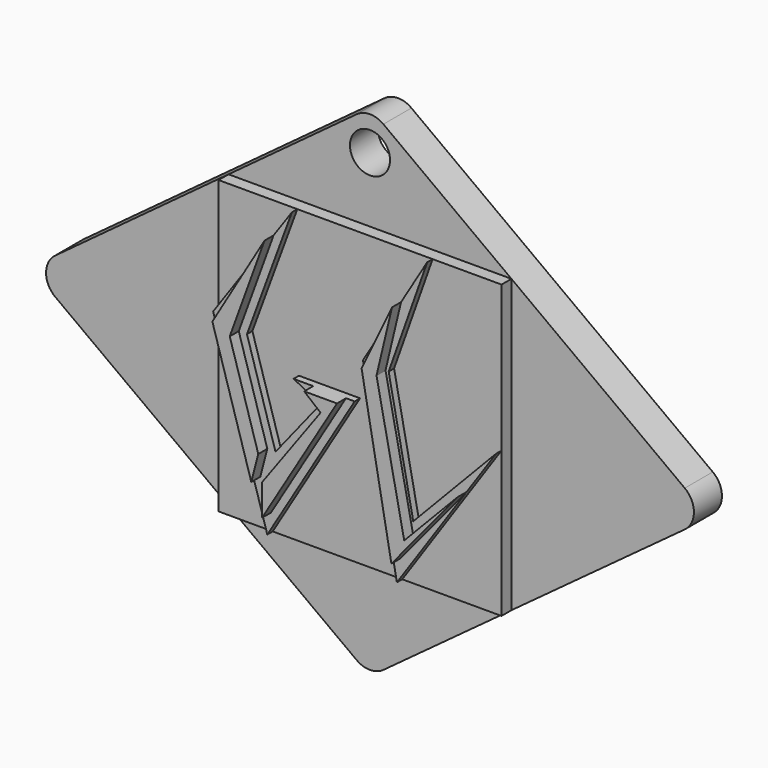
from build123d import *

# Parameters (mm, degrees)
F1_DEPTH  = 7.874
F2_W      = 63.613606
F2_H      = 65.591358
F3_DEPTH  = 2.794
F5_DEPTH  = 1.524
F7_DEPTH  = 2.54
F9_DEPTH  = 1.524
F11_DEPTH = 2.54
F12_R     = 5.08
F13_R     = 4.505395
F14_DEPTH = 7.875


with BuildPart() as f1:
    # F0 (on Front) → F1 (new body)
    with BuildSketch(Plane.XZ):
        Polygon((76.322906, 0), (0, 56.320403), (-76.322906, 0), (0, -56.136049), align=None)
    extrude(amount=F1_DEPTH)

    # F2 (on face) → F3 (join, symmetric)
    with BuildSketch(Plane.XZ.offset(7.874)):
        with Locations((0, 0.053763)):
            Rectangle(F2_W, F2_H)
    extrude(amount=F3_DEPTH, both=True)

    # F4 (on face) → F5 (join, symmetric)
    with BuildSketch(Plane.XZ.offset(10.668)):
        Polygon((-24.206918, 5.432374), (-14.103145, 32.849442), (-31.806803, 7.466371), (-19.63379, -32.741916), (0, 0), (-13.734436, 0), (-7.650726, -3.041855), (-17.790243, -15.762338), align=None)
    extrude(amount=F5_DEPTH, both=True)

    # F6 (on face) → F7 (join, symmetric)
    with BuildSketch(Plane.XZ.offset(12.192)):
        Polygon((-26.050465, 5.432374), (-18.223652, 26.94156), (-29.957661, 7.097661), (-21.203214, -21.818873), (-19.63379, -15.762338), align=None)
        Polygon((-1.935725, 0), (-9.30992, 0), (-5.622824, -3.041855), (-18.805052, -21.108629), (-18.805052, -28.13181), align=None)
    extrude(amount=F7_DEPTH, both=True)

    # F8 (on face) → F9 (join, symmetric)
    with BuildSketch(Plane.XZ.offset(10.668)):
        Polygon((7.650725, 8.388145), (16.315402, 32.849442), (1.870001, 8.759844), (9.494272, -32.741916), (31.806803, 0), (13.181371, -19.449435), align=None)
    extrude(amount=F9_DEPTH, both=True)

    # F10 (on face) → F11 (join, symmetric)
    with BuildSketch(Plane.XZ.offset(12.192)):
        Polygon((6.946966, 8.388145), (10.438644, 23.049179), (3.59492, 8.759844), (10.299012, -27.733037), (25.17973, -9.724718), (13.181371, -22.214757), align=None)
    extrude(amount=F11_DEPTH, both=True)

    # F12
    f12_edges = [f1.edges().sort_by_distance(p)[0] for p in [
        (0, -3.937, 56.320403),
        (76.322906, -3.937, 0),
        (0, -3.937, -56.136049),
        (-76.322906, -3.937, 0),
    ]]
    fillet(f12_edges, radius=F12_R)

    # F13 (on face) → F14 (cut, through all)
    with BuildSketch(Plane.XZ.offset(7.874)):
        with Locations((0, 47.471374)):
            Circle(F13_R)
    extrude(amount=-F14_DEPTH, mode=Mode.SUBTRACT)


solid = f1.part
